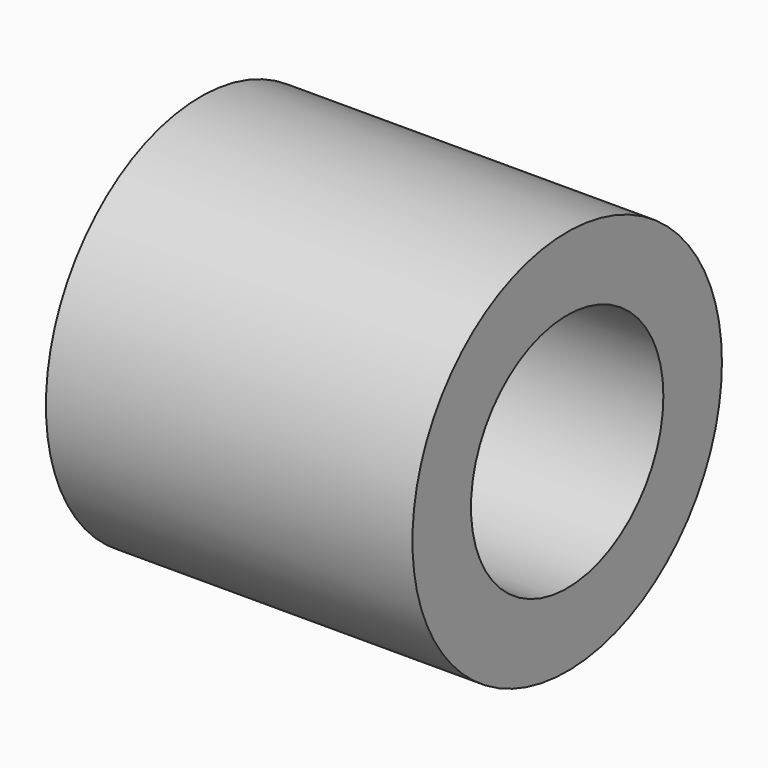
from build123d import *

# Parameters (mm, degrees)
F0_R        = 17.425887
F0_R_2      = 10.833049
F1_DEPTH    = 7.62
F1_FACE_R   = 17.425887
F1_FACE_R_2 = 10.833049
F2_DEPTH    = 25.4


with BuildPart() as f1:
    # F0 (on Right) → F1 (new body)
    with BuildSketch(Plane.YZ):
        Circle(F0_R)
        Circle(F0_R_2, mode=Mode.SUBTRACT)
    extrude(amount=F1_DEPTH)

    # F1_face (on face) → F2 (join)
    with BuildSketch(Plane.YZ.offset(7.62)):
        Circle(F1_FACE_R)
        Circle(F1_FACE_R_2, mode=Mode.SUBTRACT)
    extrude(amount=F2_DEPTH)


solid = f1.part
